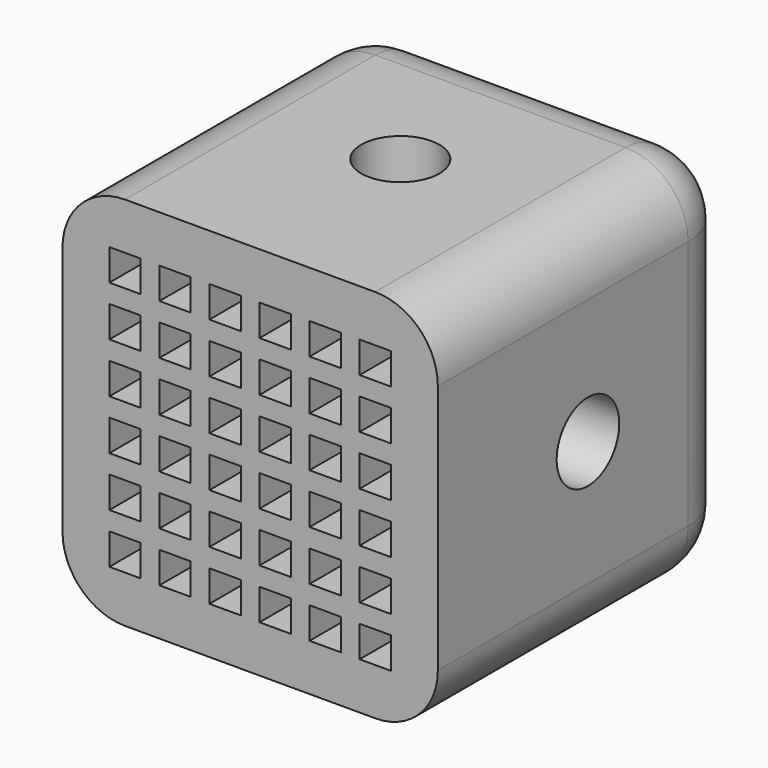
from build123d import *

# Parameters (mm, degrees)
F0_W      = 12
F0_H      = 12
F1_DEPTH  = 6
F2_R      = 1.25
F3_DEPTH  = 12.001
F4_R      = 1.25
F5_DEPTH  = 3
F6_R      = 1.25
F7_DEPTH  = 25
F8_R      = 2
F9_W      = 1
F9_H      = 1
F10_DEPTH = 3


with BuildPart() as f1:
    # F0 (on Right) → F1 (new body, symmetric)
    with BuildSketch(Plane.YZ):
        Rectangle(F0_W, F0_H)
    extrude(amount=F1_DEPTH, both=True)

    # F2 (on face) → F3 (cut, through all)
    with BuildSketch(Plane.YZ.offset(6)):
        Circle(F2_R)
    extrude(amount=-F3_DEPTH, mode=Mode.SUBTRACT)

    # F4 (on face) → F5 (cut)
    with BuildSketch(Plane(origin=(0, 6, 0), x_dir=(-1, 0, 0), z_dir=(0, 1, 0))):
        Circle(F4_R)
    extrude(amount=-F5_DEPTH, mode=Mode.SUBTRACT)

    # F6 (on face) → F7 (cut)
    with BuildSketch(Plane(origin=(0, 0, -6), x_dir=(1, 0, 0), z_dir=(0, 0, -1))):
        Circle(F6_R)
    extrude(amount=-F7_DEPTH, mode=Mode.SUBTRACT)

    # F8
    f8_edges = [f1.edges().sort_by_distance(p)[0] for p in [
        (6, 6, 0),
        (-6, 6, 0),
        (-6, 0, -6),
        (6, 0, -6),
        (0, 6, -6),
        (-6, 0, 6),
        (0, 6, 6),
        (6, 0, 6),
    ]]
    fillet(f8_edges, radius=F8_R)

    # F9 (on face) → F10 (cut)
    with BuildSketch(Plane.XZ.offset(6)):
        with Locations((-4, 4)):
            Rectangle(F9_W, F9_H)
        with Locations((-4, 2.4)):
            Rectangle(F9_W, F9_H)
        with Locations((-4, 0.8)):
            Rectangle(F9_W, F9_H)
        with Locations((-4, -0.8)):
            Rectangle(F9_W, F9_H)
        with Locations((-4, -2.4)):
            Rectangle(F9_W, F9_H)
        with Locations((-4, -4)):
            Rectangle(F9_W, F9_H)
        with Locations((-2.4, 4)):
            Rectangle(F9_W, F9_H)
        with Locations((-2.4, 2.4)):
            Rectangle(F9_W, F9_H)
        with Locations((-2.4, 0.8)):
            Rectangle(F9_W, F9_H)
        with Locations((-2.4, -0.8)):
            Rectangle(F9_W, F9_H)
        with Locations((-2.4, -2.4)):
            Rectangle(F9_W, F9_H)
        with Locations((-2.4, -4)):
            Rectangle(F9_W, F9_H)
        with Locations((-0.8, 4)):
            Rectangle(F9_W, F9_H)
        with Locations((-0.8, 2.4)):
            Rectangle(F9_W, F9_H)
        with Locations((-0.8, 0.8)):
            Rectangle(F9_W, F9_H)
        with Locations((-0.8, -0.8)):
            Rectangle(F9_W, F9_H)
        with Locations((-0.8, -2.4)):
            Rectangle(F9_W, F9_H)
        with Locations((-0.8, -4)):
            Rectangle(F9_W, F9_H)
        with Locations((0.8, 4)):
            Rectangle(F9_W, F9_H)
        with Locations((0.8, 2.4)):
            Rectangle(F9_W, F9_H)
        with Locations((0.8, 0.8)):
            Rectangle(F9_W, F9_H)
        with Locations((0.8, -0.8)):
            Rectangle(F9_W, F9_H)
        with Locations((0.8, -2.4)):
            Rectangle(F9_W, F9_H)
        with Locations((0.8, -4)):
            Rectangle(F9_W, F9_H)
        with Locations((2.4, 4)):
            Rectangle(F9_W, F9_H)
        with Locations((2.4, 2.4)):
            Rectangle(F9_W, F9_H)
        with Locations((2.4, 0.8)):
            Rectangle(F9_W, F9_H)
        with Locations((2.4, -0.8)):
            Rectangle(F9_W, F9_H)
        with Locations((2.4, -2.4)):
            Rectangle(F9_W, F9_H)
        with Locations((2.4, -4)):
            Rectangle(F9_W, F9_H)
        with Locations((4, 4)):
            Rectangle(F9_W, F9_H)
        with Locations((4, 2.4)):
            Rectangle(F9_W, F9_H)
        with Locations((4, 0.8)):
            Rectangle(F9_W, F9_H)
        with Locations((4, -0.8)):
            Rectangle(F9_W, F9_H)
        with Locations((4, -2.4)):
            Rectangle(F9_W, F9_H)
        with Locations((4, -4)):
            Rectangle(F9_W, F9_H)
    extrude(amount=-F10_DEPTH, mode=Mode.SUBTRACT)


solid = f1.part
